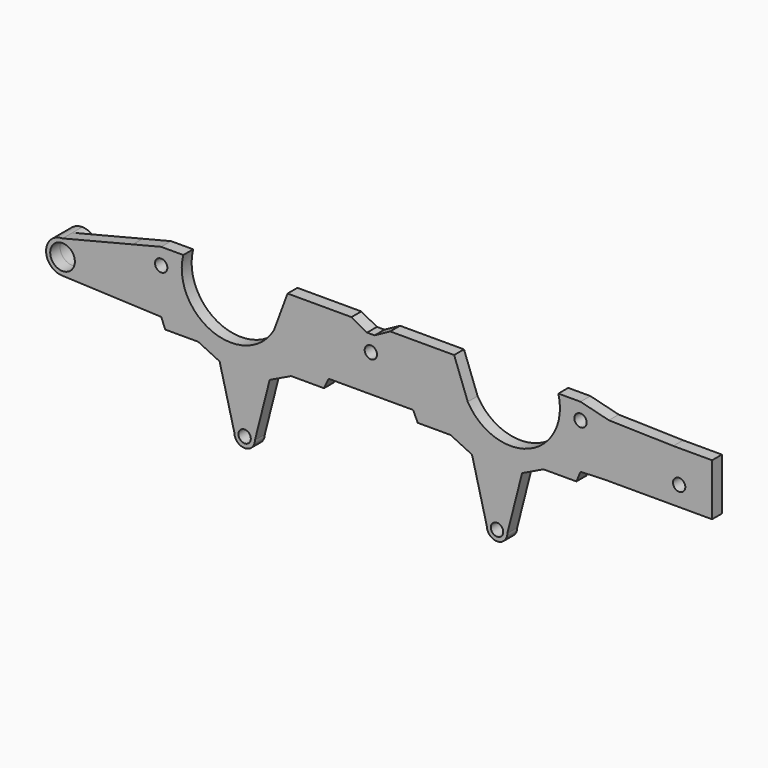
from build123d import *

# Parameters (mm, degrees)
F0_R     = 1.5
F1_DEPTH = 3
F0_R_2   = 3
F2_DEPTH = 3
F4_D     = 3


with BuildPart() as f1:
    # F0 (on Front) → F1 (new body)
    with BuildSketch(Plane.XZ):
        with BuildLine():
            Line((-57.8970168753, 22.2757457812), (-75, 18))
            ThreePointArc((-75, 18), (-72.1715728753, 16.8284271247), (-71, 14))
            ThreePointArc((-71, 14), (-72.1715728753, 11.1715728753), (-75, 10))
            Line((-75, 10), (-56.6075588533, 9.2336482856))
            ThreePointArc((-56.6075588533, 9.2336482856), (-56.0921877833, 15.8693948691), (-57.8970168753, 22.2757457812))
        make_face()
        with BuildLine():
            Line((-51, 24), (-57.8970168753, 22.2757457812))
            ThreePointArc((-57.8970168753, 22.2757457812), (-56.0921877833, 15.8693948691), (-56.6075588533, 9.2336482856))
            Line((-56.6075588533, 9.2336482856), (-51, 9))
            Line((-51, 9), (-50, 6.5993144652))
            Line((-50, 6.5993144652), (-42, 6.5993144652))
            Line((-42, 6.5993144652), (-36.7907804817, 4.091785901))
            ThreePointArc((-36.7907804817, 4.091785901), (-30.7, 5.3517437692), (-24.6092195183, 4.091785901))
            Line((-24.6092195183, 4.091785901), (-19.4, 6.5993144652))
            Line((-19.4, 6.5993144652), (-11.4, 6.5993144652))
            Line((-11.4, 6.5993144652), (-10.2805419503, 9))
            Line((-10.2805419503, 9), (10.2805419503, 9))
            Line((10.2805419503, 9), (11.4, 6.5993144652))
            Line((11.4, 6.5993144652), (19.4, 6.5993144652))
            Line((19.4, 6.5993144652), (24.6092195183, 4.091785901))
            ThreePointArc((24.6092195183, 4.091785901), (30.7, 5.3517437692), (36.7907804817, 4.091785901))
            Line((36.7907804817, 4.091785901), (42, 6.5993144652))
            Line((42, 6.5993144652), (50, 6.5993144652))
            Line((50, 6.5993144652), (51, 9))
            Line((51, 9), (56.6075588533, 9.2336482856))
            ThreePointArc((56.6075588533, 9.2336482856), (56.0921877833, 15.8693948691), (57.8970168753, 22.2757457812))
            Line((57.8970168753, 22.2757457812), (51, 24))
            Line((51, 24), (45.6189500386, 24))
            ThreePointArc((45.6189500386, 24), (38.5092844997, 9.8794625444), (23.5729752888, 15.0605424767))
            Line((23.5729752888, 15.0605424767), (0, 12.9805740689))
            Line((0, 12.9805740689), (-23.5729752888, 15.0605424767))
            ThreePointArc((-23.5729752888, 15.0605424767), (-38.5092844997, 9.8794625444), (-45.6189500386, 24))
            Line((-45.6189500386, 24), (-51, 24))
        make_face()
        Polygon((-20.2601172091, 24), (-23.5729752888, 15.0605424767), (0, 12.9805740689), (23.5729752888, 15.0605424767), (20.2601172091, 24), (4.7092107675, 24), (0.9159085684, 21.9222409377), (-0.9159085684, 21.9222409377), (-4.7092107675, 24), align=None)
        with Locations((0, 18)):
            Circle(F0_R, mode=Mode.SUBTRACT)
        with BuildLine():
            Line((73.569615724, 21.8710863814), (57.8970168753, 22.2757457812))
            ThreePointArc((57.8970168753, 22.2757457812), (56.0921877833, 15.8693948691), (56.6075588533, 9.2336482856))
            Line((56.6075588533, 9.2336482856), (83, 9.2336482856))
            Line((83, 9.2336482856), (83, 21.8710863814))
            Line((83, 21.8710863814), (73.569615724, 21.8710863814))
        make_face()
        with Locations((75, 14)):
            Circle(F0_R, mode=Mode.SUBTRACT)
        with BuildLine():
            ThreePointArc((36.7907804817, 4.091785901), (30.7, 5.3517437692), (24.6092195183, 4.091785901))
            Line((24.6092195183, 4.091785901), (28.2, -10))
            ThreePointArc((28.2, -10), (30.7, -12.5), (33.2, -10))
            Line((33.2, -10), (36.7907804817, 4.091785901))
        make_face()
        with Locations((30.7, -10)):
            Circle(F0_R, mode=Mode.SUBTRACT)
        with BuildLine():
            ThreePointArc((-24.6092195183, 4.091785901), (-30.7, 5.3517437692), (-36.7907804817, 4.091785901))
            Line((-36.7907804817, 4.091785901), (-33.2, -10))
            ThreePointArc((-33.2, -10), (-30.7, -12.5), (-28.2, -10))
            Line((-28.2, -10), (-24.6092195183, 4.091785901))
        make_face()
        with Locations((-30.7, -10)):
            Circle(F0_R, mode=Mode.SUBTRACT)
    extrude(amount=F1_DEPTH)

    # F0 (on Front) → F2 (join, symmetric)
    with BuildSketch(Plane.XZ):
        with BuildLine():
            ThreePointArc((-71, 14), (-72.1715728753, 16.8284271247), (-75, 18))
            ThreePointArc((-75, 18), (-79, 14), (-75, 10))
            ThreePointArc((-75, 10), (-72.1715728753, 11.1715728753), (-71, 14))
        make_face()
        with Locations((-75, 14)):
            Circle(F0_R_2, mode=Mode.SUBTRACT)
    extrude(amount=F2_DEPTH, both=True)

    # F4 (through all)
    with Locations(Plane.XZ.offset(3)):
        with Locations((-51, 20), (51, 20)):
            Hole(F4_D / 2)


solid = f1.part
